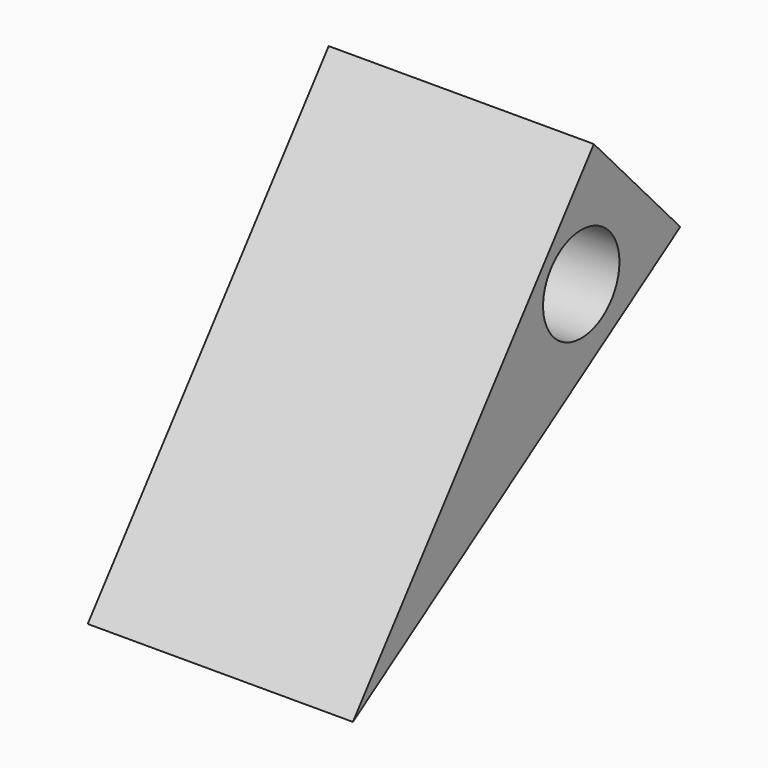
from build123d import *

# Parameters (mm, degrees)
F0_R     = 9.144
F1_DEPTH = 50.8


with BuildPart() as f1:
    # F0 (on Right) → F1 (new body)
    with BuildSketch(Plane.YZ):
        Polygon((0, -22.382307), (-20.689677, 0), (-78.390539, -74.001424), align=None)
        with Locations((-23.709829, -22.382307)):
            Circle(F0_R, mode=Mode.SUBTRACT)
    extrude(amount=F1_DEPTH)


solid = f1.part
